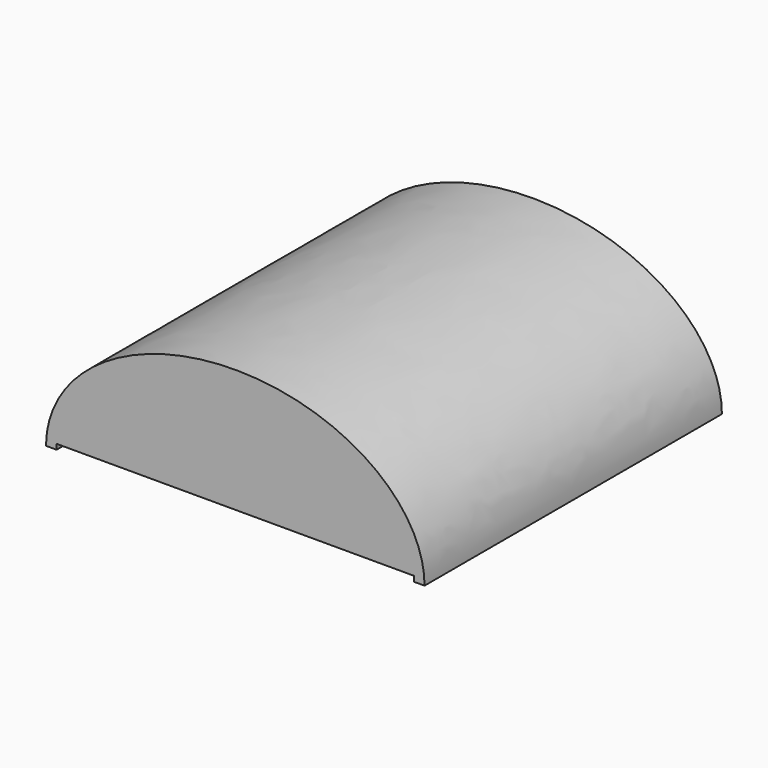
from build123d import *

# Parameters (mm, degrees)
F1_DEPTH = 56.134
F2_R     = 7.14375
F3_DEPTH = 4.7625


with BuildPart() as f1:
    # F0 (on Front) → F1 (new body)
    with BuildSketch(Plane.XZ):
        with BuildLine():
            add(Edge.make_bspline(
                [(28.575, 11.7431515828), (28.575, 31.1584938318), (0, 31.1584938318), (-28.575, 31.1584938318), (-28.575, 11.7431515828)],
                knots=[3.1415926536, 3.1415926536, 3.1415926536, 4.7123889804, 4.7123889804, 6.2831853072, 6.2831853072, 6.2831853072], degree=2, weights=[1, 0.7071067812, 1, 0.7071067812, 1]))
            Line((-28.575, 11.7431515828), (-26.9875, 11.7431515828))
            Line((-26.9875, 11.7431515828), (-26.9875, 12.5369015828))
            Line((-26.9875, 12.5369015828), (0, 12.5369015828))
            Line((0, 12.5369015828), (26.9875, 12.5369015828))
            Line((26.9875, 12.5369015828), (26.9875, 11.7431515828))
            Line((26.9875, 11.7431515828), (28.575, 11.7431515828))
        make_face()
    extrude(amount=F1_DEPTH)

    # F2 (on face) → F3 (cut)
    with BuildSketch(Plane(origin=(0, 0, 12.5369015828), x_dir=(1, 0, 0), z_dir=(0, 0, -1))):
        with Locations((0, 28.067)):
            Circle(F2_R)
    extrude(amount=-F3_DEPTH, mode=Mode.SUBTRACT)


solid = f1.part
